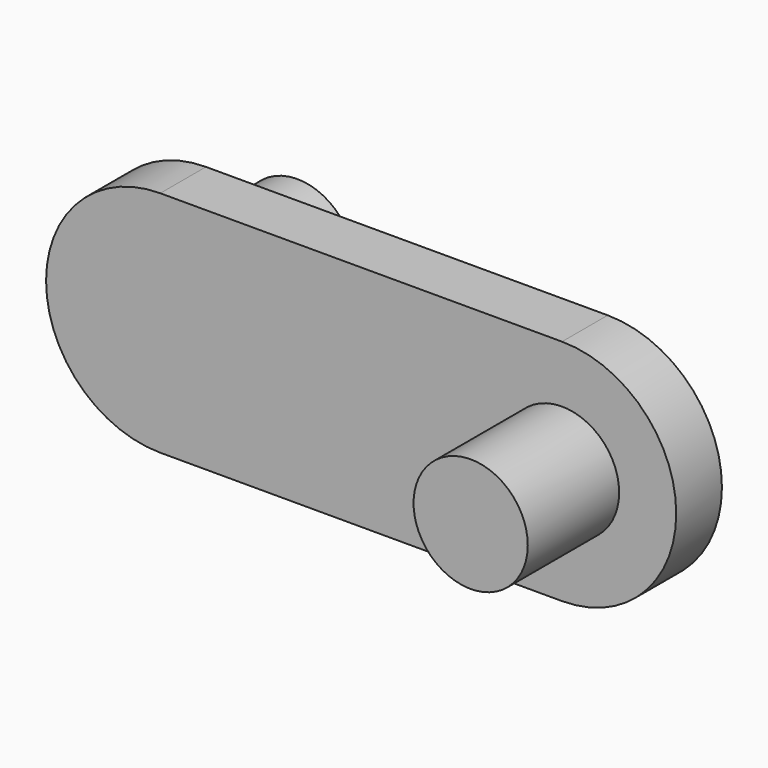
from build123d import *

# Parameters (mm, degrees)
F0_R          = 5
F1_DEPTH      = 5
F2_DEPTH      = 15
F3_DEPTH      = 10
F3_DEPTH_BACK = 5


with BuildPart() as f1:
    # F0 (on Front) → F1 (new body)
    with BuildSketch(Plane.XZ):
        with BuildLine():
            Line((35.1758819227, 0), (0, 0))
            ThreePointArc((0, 0), (-10, -10), (0, -20))
            Line((0, -20), (35.1758819227, -20))
            ThreePointArc((35.1758819227, -20), (45.1758819227, -10), (35.1758819227, 0))
        make_face()
        with Locations((0, -10)):
            Circle(F0_R, mode=Mode.SUBTRACT)
        with Locations((35.1758819227, -10)):
            Circle(F0_R, mode=Mode.SUBTRACT)
    extrude(amount=F1_DEPTH)

    # F0 (on Front) → F2 (join)
    with BuildSketch(Plane.XZ):
        with Locations((35.1758819227, -10)):
            Circle(F0_R)
    extrude(amount=F2_DEPTH)

    # F0 (on Front) → F3 (join, two sides)
    with BuildSketch(Plane.XZ) as f3_sk:
        with Locations((0, -10)):
            Circle(F0_R)
    extrude(amount=-F3_DEPTH)
    extrude(f3_sk.sketch, amount=F3_DEPTH_BACK)


solid = f1.part
